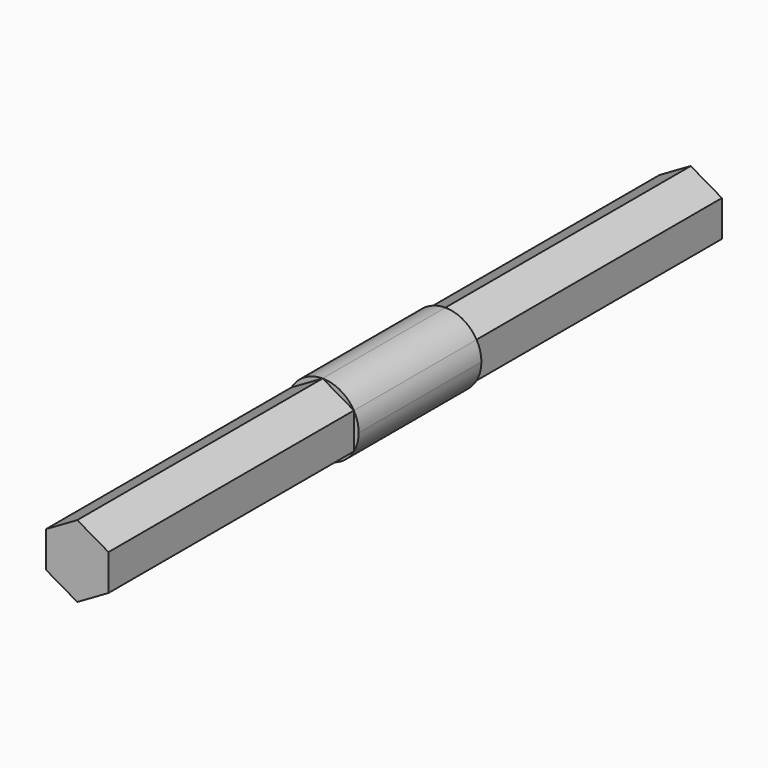
from build123d import *

# Parameters (mm, degrees)
F1_DEPTH      = 20
F1_DEPTH_BACK = 30
F2_DEPTH      = 10


with BuildPart() as f1:
    # F0 (on Front) → F1 (new body, two sides)
    with BuildSketch(Plane.XZ) as f1_sk:
        Polygon((2.03516, -1.175), (2.03516, 1.175), (0, 2.35), (-2.03516, 1.175), (-2.03516, -1.175), (0, -2.35), align=None)
    extrude(amount=F1_DEPTH)
    extrude(f1_sk.sketch, amount=-F1_DEPTH_BACK)

    # F0 (on Front) → F2 (join)
    with BuildSketch(Plane.XZ):
        with BuildLine():
            Line((-2.03516, 1.175), (0, 2.35))
            ThreePointArc((0, 2.35), (-1.175, 2.03516), (-2.03516, 1.175))
        make_face()
        with BuildLine():
            Line((0, 2.35), (2.03516, 1.175))
            ThreePointArc((2.03516, 1.175), (1.175, 2.03516), (0, 2.35))
        make_face()
        with BuildLine():
            ThreePointArc((2.03516, -1.175), (2.269926, -0.608225), (2.35, 0))
            ThreePointArc((2.35, 0), (2.269926, 0.608225), (2.03516, 1.175))
            Line((2.03516, 1.175), (2.03516, -1.175))
        make_face()
        with BuildLine():
            ThreePointArc((0, -2.35), (1.175, -2.03516), (2.03516, -1.175))
            Line((2.03516, -1.175), (0, -2.35))
        make_face()
        Polygon((2.03516, -1.175), (2.03516, 1.175), (0, 2.35), (-2.03516, 1.175), (-2.03516, -1.175), (0, -2.35), align=None)
        with BuildLine():
            Line((-2.03516, -1.175), (-2.03516, 1.175))
            ThreePointArc((-2.03516, 1.175), (-2.35, 0), (-2.03516, -1.175))
        make_face()
        with BuildLine():
            ThreePointArc((-2.03516, -1.175), (-1.175, -2.03516), (0, -2.35))
            Line((0, -2.35), (-2.03516, -1.175))
        make_face()
    extrude(amount=-F2_DEPTH)


solid = f1.part
